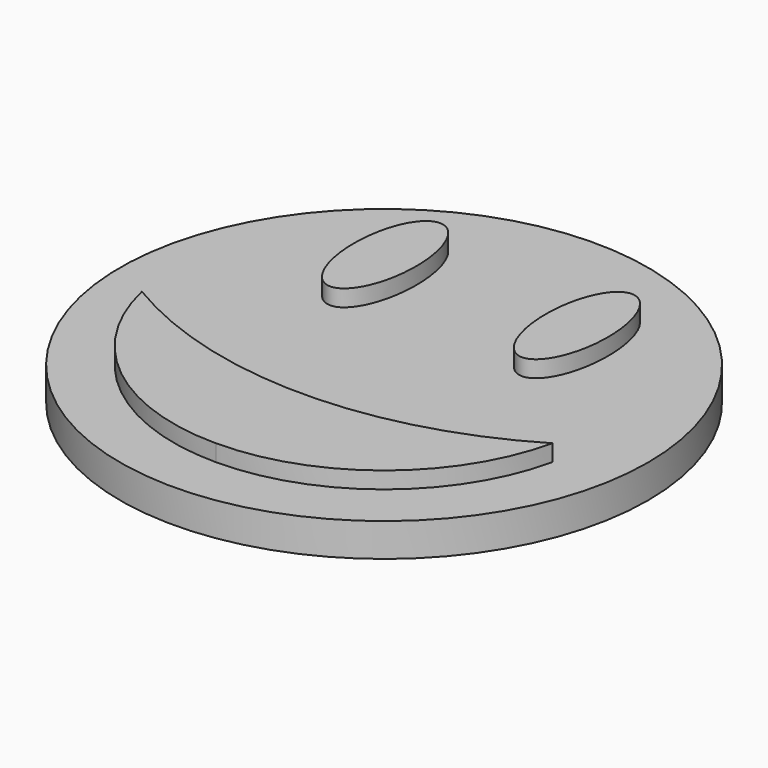
from build123d import *

# Parameters (mm, degrees)
F0_R     = 9.5
F1_DEPTH = 1.2
F3_DEPTH = 0.6


with BuildPart() as f1:
    # F0 (on Top) → F1 (new body)
    with BuildSketch(Plane.XY):
        Circle(F0_R)
    extrude(amount=F1_DEPTH)

    # F2 (on face) → F3 (join)
    with BuildSketch(Plane.XY.offset(1.2)):
        with BuildLine():
            ThreePointArc((-7.387759, -1.661425), (-4.730674, -5.912702), (0, -7.572273))
            ThreePointArc((0, -7.572273), (4.730674, -5.912702), (7.387759, -1.661425))
            ThreePointArc((7.387759, -1.661425), (0, -3.70135), (-7.387759, -1.661425))
        make_face()
        with BuildLine():
            add(Edge.make_bspline(
                [(-3.451764, 6.830038), (-5.394535, 6.830038), (-4.42315, 3.125212), (-3.451764, -0.579613), (-2.480379, 3.125212), (-1.508994, 6.830038), (-3.451764, 6.830038)],
                knots=[0, 0, 0, 2.094395, 2.094395, 4.18879, 4.18879, 6.283185, 6.283185, 6.283185], degree=2, weights=[1, 0.5, 1, 0.5, 1, 0.5, 1]))
        make_face()
        with BuildLine():
            add(Edge.make_bspline(
                [(3.451764, 6.830038), (1.508994, 6.830038), (2.480379, 3.125212), (3.451764, -0.579613), (4.42315, 3.125212), (5.394535, 6.830038), (3.451764, 6.830038)],
                knots=[0, 0, 0, 2.094395, 2.094395, 4.18879, 4.18879, 6.283185, 6.283185, 6.283185], degree=2, weights=[1, 0.5, 1, 0.5, 1, 0.5, 1]))
        make_face()
    extrude(amount=F3_DEPTH)


solid = f1.part
